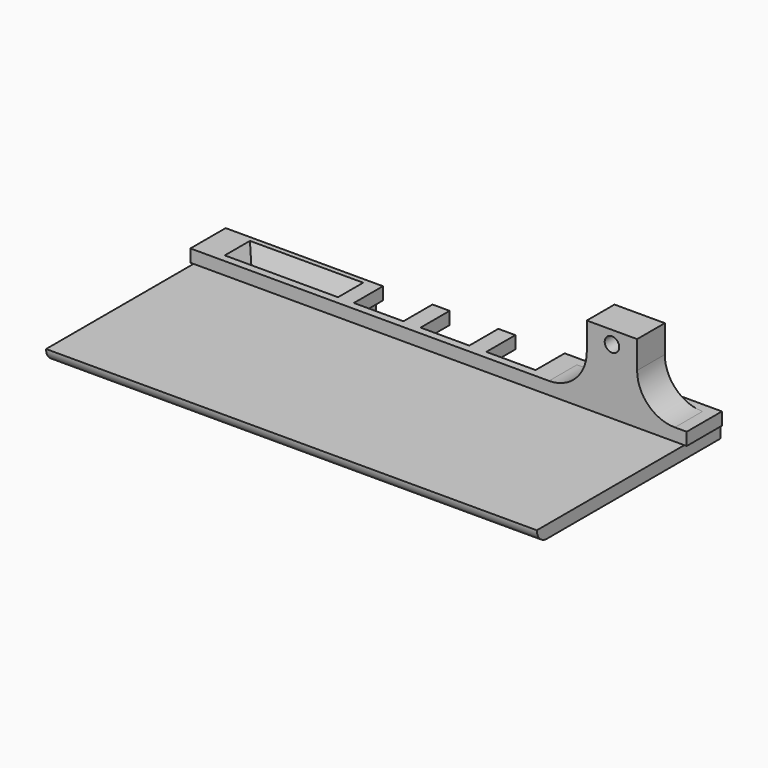
from build123d import *

# Parameters (mm, degrees)
PAD010_DEPTH    = 2
PAD013_DEPTH    = 2
SKETCH021_W     = 8
SKETCH021_H     = 11
SKETCH021_R     = 1.15
PAD014_DEPTH    = 5.5
FILLET003_R     = 6
FILLET006_R     = 1.99
SKETCH025_W     = 18
SKETCH025_H     = 5
POCKET008_DEPTH = 4
POCKET008_TAPER = 23


with BuildPart() as part:
    # Sketch014 → Pad010 (new body)
    with BuildSketch(Plane.XY):
        Polygon((-39, -15), (-15.75, -15), (-15.75, -22), (15.75, -22), (15.75, -15), (39, -15), (39, -51.5), (-39, -51.5), align=None)
    extrude(amount=PAD010_DEPTH)

    # Sketch020 (on Face10 of Pad010) → Pad013 (join)
    with BuildSketch(Plane.XY.offset(2)):
        Polygon((-14.5, -15.2), (-39.5, -15.2), (-39.5, -22.2), (39.378634, -22.2), (39.378634, -15.2), (14.378634, -15.2), (14.378634, -20.97266), (6.547439, -20.97266), (6.547439, -15.2), (3.839445, -15.2), (3.839445, -20.97266), (-3.90018, -20.97266), (-3.90018, -15.2), (-6.625733, -15.2), (-6.625733, -20.97266), (-14.5, -20.97266), align=None)
    extrude(amount=PAD013_DEPTH)

    # Sketch021 (on Face15 of Pad013) → Pad014 (join)
    with BuildSketch(Plane.XZ.offset(22.2)):
        with Locations((27.5, 8.9)):
            Rectangle(SKETCH021_W, SKETCH021_H)
        with Locations((27.5, 12.35)):
            Circle(SKETCH021_R, mode=Mode.SUBTRACT)
    extrude(amount=-PAD014_DEPTH)

    # Fillet003
    fillet003_edges = [part.edges().sort_by_distance(p)[0] for p in [
        (23.5, -19.45, 4),
        (31.5, -19.45, 4),
    ]]
    fillet(fillet003_edges, radius=FILLET003_R)

    # Fillet006
    fillet006_edges = [part.edges().sort_by_distance(p)[0] for p in [
        (0, -51.5, 0),
    ]]
    fillet(fillet006_edges, radius=FILLET006_R)

    # Sketch025 (on Face19 of Fillet006) → Pocket008 (cut)
    with BuildSketch(Plane.XY.offset(4)):
        with Locations((-26, -18.5)):
            Rectangle(SKETCH025_W, SKETCH025_H)
    extrude(amount=-POCKET008_DEPTH, taper=POCKET008_TAPER, mode=Mode.SUBTRACT)


solid = part.part
